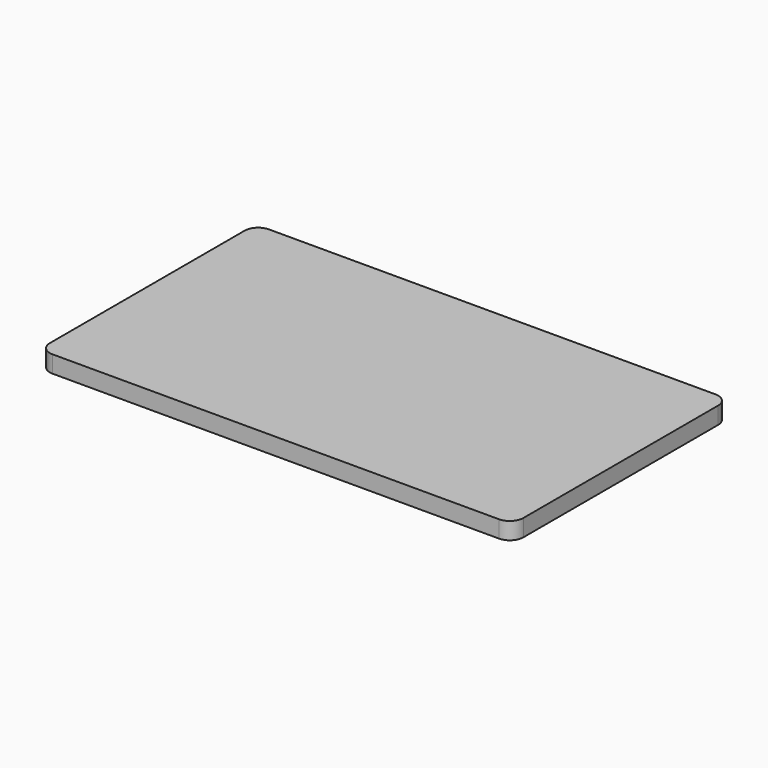
from build123d import *

# Parameters (mm, degrees)
F0_W     = 88.9
F0_H     = 50.8
F1_DEPTH = 3.2
F2_R     = 2.54
F4_W     = 3.3
F4_H     = 3.3
F5_DEPTH = 2
F7_W     = 2
F7_H     = 2
F8_DEPTH = 1.5


with BuildPart() as f1:
    # F0 (on Top) → F1 (new body)
    with BuildSketch(Plane.XY):
        Rectangle(F0_W, F0_H)
    extrude(amount=F1_DEPTH)

    # F2
    f2_edges = [f1.edges().sort_by_distance(p)[0] for p in [
        (44.45, -25.4, 1.6),
        (44.45, 25.4, 1.6),
        (-44.45, -25.4, 1.6),
        (-44.45, 25.4, 1.6),
    ]]
    fillet(f2_edges, radius=F2_R)

    # F4 (on face) → F5 (join)
    with BuildSketch(Plane(origin=(0, 0, 0), x_dir=(1, 0, 0), z_dir=(0, 0, -1))):
        with Locations((25.4, 0)):
            Rectangle(F4_W, F4_H)
    extrude(amount=F5_DEPTH)

    # F7 (on face) → F8 (join)
    with BuildSketch(Plane(origin=(0, 0, 0), x_dir=(1, 0, 0), z_dir=(0, 0, -1))):
        with Locations((20.4, 0)):
            Rectangle(F7_W, F7_H)
    extrude(amount=F8_DEPTH)


solid = f1.part
